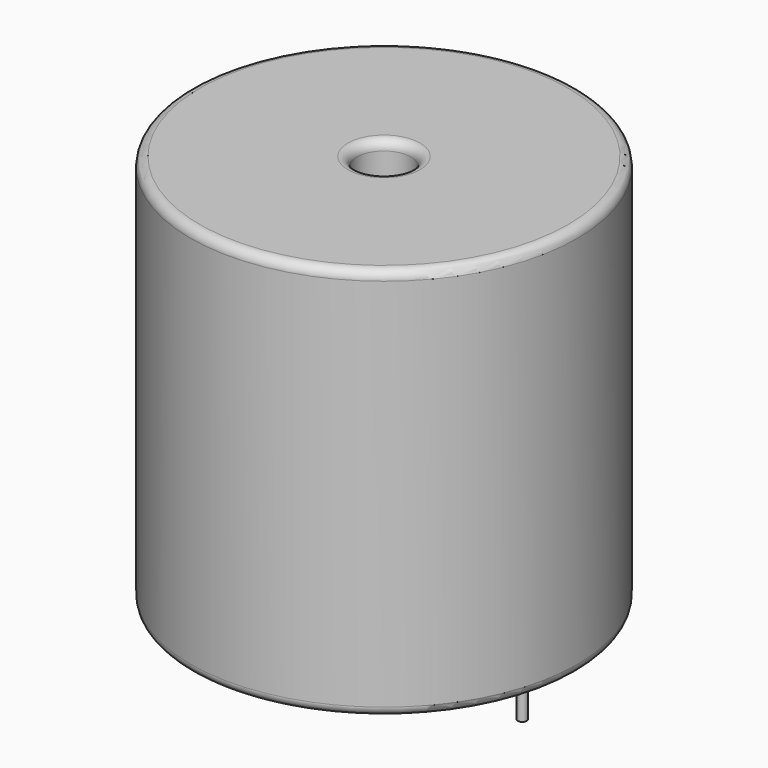
from build123d import *

# Parameters (mm, degrees)
SKETCH001_R       = 0.25
PAD001_DEPTH      = 10.67
PAD001_DEPTH_BACK = 3.5
SKETCH_R          = 10.5
SKETCH_R_2        = 1.46
PAD_DEPTH         = 21.34
FILLET_R          = 0.5


with BuildPart() as pad001:
    # Sketch001 → Pad001 (new body, two sides)
    with BuildSketch(Plane.XY.offset(0.5)) as pad001_sk:
        Circle(SKETCH001_R)
        with Locations((15, 0)):
            Circle(SKETCH001_R)
    extrude(amount=PAD001_DEPTH)
    extrude(pad001_sk.sketch, amount=-PAD001_DEPTH_BACK)


with BuildPart() as obj1:
    # Sketch → Pad (new body)
    with BuildSketch(Plane.XY.offset(0.1)):
        with Locations((7.5, 0)):
            Circle(SKETCH_R)
        with Locations((7.5, 0)):
            Circle(SKETCH_R_2, mode=Mode.SUBTRACT)
    extrude(amount=PAD_DEPTH)

    # Fillet
    fillet_edges = [obj1.edges().sort_by_distance(p)[0] for p in [
        (6.04, 0, 21.44),
        (-3, 0, 21.44),
        (-3, 0, 0.1),
    ]]
    fillet(fillet_edges, radius=FILLET_R)

    # obj1: union Pad001
    add(pad001.part)


solid = obj1.part
